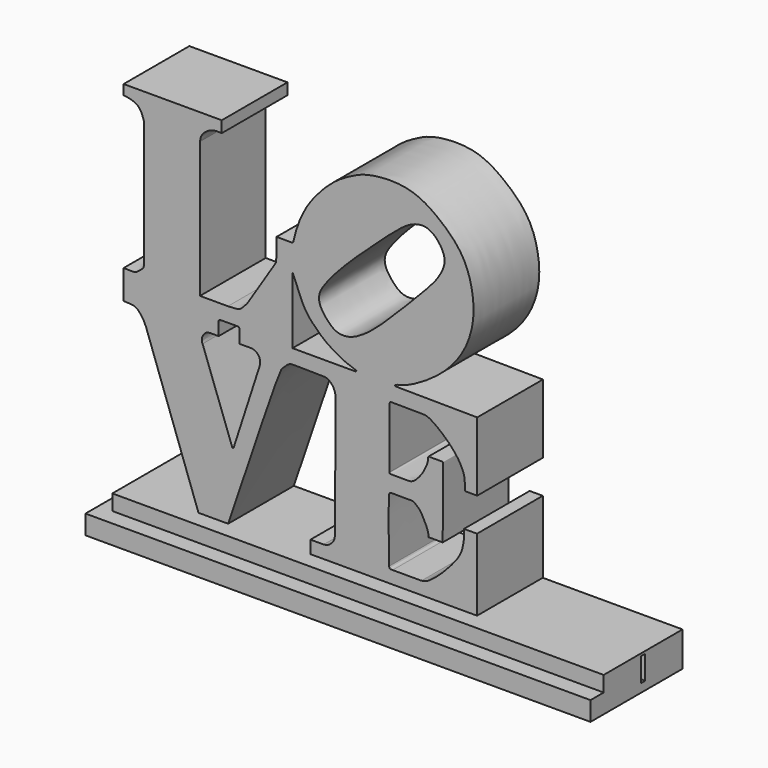
from build123d import *

# Parameters (mm, degrees)
F1_DEPTH = 10
F3_DEPTH = 12
F4_DEPTH = 14
F7_DEPTH = 2.9


with BuildPart() as f1:
    # F0 (on Front) → F1 (new body)
    with BuildSketch(Plane.XZ):
        with BuildLine():
            Line((-19.4826871157, 14.337184839), (-19.4826871157, -1.2017904082))
            add(Edge.make_bspline(
                [(-19.6649637073, -1.5822472051), (-19.6187043398, -1.533607977), (-19.5227706695, -1.4327389007), (-19.4963616594, -1.2805787129), (-19.4826871157, -1.2017904082)],
                knots=[0, 0, 0, 0, 0.482201581, 1, 1, 1, 1], degree=3))
            add(Edge.make_bspline(
                [(-21.940831095, -2.2398743313), (-21.4614434629, -2.2677838281), (-20.6745846762, -2.3135940063), (-20.1785704012, -2.0533117715), (-19.8437692275, -1.7462422344), (-19.6649637073, -1.5822472051)],
                knots=[0, 0, 0, 0, 0.4207779979, 0.6906579202, 1, 1, 1, 1], degree=3))
            Line((-21.940831095, -2.2398743313), (-21.940831095, -4.0263943374))
            Line((-21.940831095, -4.0263943374), (-21.940831095, -5.7869860902))
            add(Edge.make_bspline(
                [(-19.2190650851, -7.6768761501), (-19.3574545345, -7.3650844697), (-19.6232867039, -6.7661641102), (-20.2498331404, -6.1086539097), (-20.666070726, -5.8219261848), (-21.452464873, -5.8003717919), (-21.940831095, -5.7869860902)],
                knots=[0, 0, 0, 0, 0.2687792293, 0.5162977806, 0.6996114145, 1, 1, 1, 1], degree=3))
            Line((-19.2190650851, -7.6768761501), (-12.815640308, -25.5715548992))
            Line((-12.815640308, -25.5715548992), (-9.2427376658, -25.5715548992))
            add(Edge.make_bspline(
                [(3.8729265798, -7.6007489115), (3.8090509807, -7.3159216914), (3.6831428187, -6.7544855207), (3.093759686, -6.1372068831), (2.7101051495, -5.9735993516), (2.3815401865, -5.9171200285), (-1.3645418718, -5.8586529728), (-1.8311485666, -5.9537375199), (-2.6388199367, -6.6926673664), (-3.0930409404, -7.3485166851), (-6.4224535723, -17.2143712682), (-9.2427376658, -25.5715548992)],
                knots=[0, 0, 0, 0, 0.0785350607, 0.1548041079, 0.204919685, 0.2561219488, 0.4165133399, 0.4824659728, 0.562584121, 0.6294730686, 1, 1, 1, 1], degree=3))
            Line((3.8729265798, -7.6007489115), (3.764757188, -22.6705409586))
            add(Edge.make_bspline(
                [(2.4085196201, -23.958325386), (2.5714370456, -23.937177153), (2.8974931658, -23.8948519641), (3.2846630395, -23.5900940323), (3.6724062343, -23.1941726688), (3.7341418008, -22.8441308017), (3.764757188, -22.6705409586)],
                knots=[0, 0, 0, 0, 0.2440991323, 0.4885297922, 0.7463559607, 1, 1, 1, 1], degree=3))
            Line((2.4085196201, -23.958325386), (0.7998591755, -23.958325386))
            Line((0.7998591755, -23.958325386), (0.7998591755, -25.5638938397))
            Line((0.7998591755, -25.5638938397), (21.0764594376, -25.5638938397))
            Line((21.0764594376, -25.5638938397), (21.0764594376, -16.7282037437))
            Line((21.0764594376, -16.7282037437), (19.4828491658, -16.7282037437))
            add(Edge.make_bspline(
                [(14.3079748377, -23.9669959992), (14.5156926676, -23.9283007006), (14.9412380073, -23.8490267933), (15.5318990899, -23.4176465838), (16.4848419087, -22.7028822548), (18.0066202118, -21.1027349086), (18.9662064984, -19.8620202223), (19.3277589019, -18.848449867), (19.5033267039, -17.8680538124), (19.4898508119, -17.1179394033), (19.4828491658, -16.7282037437)],
                knots=[0, 0, 0, 0, 0.0925982031, 0.1897031845, 0.3174668816, 0.4929492083, 0.6405026154, 0.7591107674, 0.8748415938, 1, 1, 1, 1], degree=3))
            Line((14.3079748377, -23.9669959992), (10.8027942479, -23.9669959992))
            add(Edge.make_bspline(
                [(10.356307961, -23.7108133733), (10.3781321126, -23.7688444956), (10.4180977465, -23.8751144042), (10.5169396705, -23.9710258486), (10.6950058014, -23.9685155523), (10.8027942479, -23.9669959992)],
                knots=[0, 0, 0, 0, 0.3219369352, 0.5895493209, 1, 1, 1, 1], degree=3))
            add(Edge.make_bspline(
                [(10.5858389288, -15.7529655844), (10.539888578, -15.7707958582), (10.4444241773, -15.8078392403), (10.2692345658, -16.0668518023), (10.3156834502, -20.1444863785), (10.356307961, -23.7108133733)],
                knots=[0, 0, 0, 0, 0.1042381883, 0.2165606137, 1, 1, 1, 1], degree=3))
            add(Edge.make_bspline(
                [(15.142666176, -19.0223865211), (15.1502270151, -18.9165119327), (15.1684083083, -18.6619189046), (14.9763657241, -18.0000506074), (14.5384502927, -17.1469641201), (14.1156344945, -16.3642016174), (13.2911627526, -15.740142118), (12.9218181808, -15.7849680804), (11.5677447807, -15.7664175181), (10.5858389288, -15.7529655844)],
                knots=[0, 0, 0, 0, 0.0906032212, 0.2178704898, 0.3703395213, 0.5212588576, 0.6707635101, 0.7612542747, 1, 1, 1, 1], degree=3))
            Line((15.142666176, -19.0223865211), (16.8977547437, -19.0223865211))
            add(Edge.make_bspline(
                [(15.1237491518, -10.4752806947), (15.1345862919, -10.4405051349), (15.157362332, -10.367418551), (15.2775134829, -10.3814304195), (16.8065084865, -10.3817911133), (16.9194667808, -10.3772561783), (16.93747369, -10.4821629882), (16.9303470706, -10.7993784178), (16.9246891089, -10.9765232367), (16.8958352347, -18.9193850836), (16.8975897028, -19.0135303779), (16.8977547437, -19.0223865211)],
                knots=[0, 0, 0, 0, 0.0457959447, 0.0962477435, 0.2816314648, 0.3284553422, 0.3717983301, 0.4478947693, 0.5389026862, 0.9566250881, 1, 1, 1, 1], degree=3))
            add(Edge.make_bspline(
                [(10.421465151, -13.5967666283), (10.4229102917, -13.6474927254), (10.4259918413, -13.7556586572), (10.6490145983, -13.7696465708), (11.0713461857, -13.7643261512), (12.1270489988, -13.7580644355), (12.838263735, -13.7835198273), (13.0499262825, -13.7273845321), (13.3703514784, -13.609186391), (13.6915756343, -13.3191559254), (14.1058916942, -12.8593216872), (14.5026307602, -12.3208040569), (14.790331123, -11.7420980935), (15.0398344642, -11.1878720668), (15.125841099, -10.7588653638), (15.1243926103, -10.5625080172), (15.1237491518, -10.4752806947)],
                knots=[0, 0, 0, 0, 0.0389857576, 0.0831313867, 0.1529098964, 0.2649908396, 0.3543510064, 0.4027212524, 0.4627809137, 0.5330037338, 0.6170761839, 0.7046843909, 0.7908635669, 0.8743066134, 0.9441635479, 1, 1, 1, 1], degree=3))
            Line((10.421465151, -13.5967666283), (10.447374545, -6.1845802702))
            add(Edge.make_bspline(
                [(10.6538878754, -6.0236915015), (10.5982904529, -6.023408839), (10.4871364595, -6.0228437217), (10.4606252687, -6.1306812983), (10.447374545, -6.1845802702)],
                knots=[0, 0, 0, 0, 0.500183761, 1, 1, 1, 1], degree=3))
            Line((10.6538878754, -6.0236915015), (14.6375913173, -6.0587520711))
            add(Edge.make_bspline(
                [(19.5921547711, -12.6453824341), (19.594983278, -12.4004405865), (19.6008858018, -11.8892963276), (19.5535799158, -10.9900220101), (19.1933996541, -10.1470570166), (18.698772835, -9.2969795309), (17.8581764088, -8.2963889506), (16.9971120507, -7.4791692236), (16.0477993739, -6.708372463), (15.1316416689, -6.1304412235), (14.7786163879, -6.0792155072), (14.6375913173, -6.0587520711)],
                knots=[0, 0, 0, 0, 0.098388396, 0.2053167485, 0.3128120242, 0.4254058388, 0.5545643433, 0.6788416905, 0.8058311891, 0.9224342512, 1, 1, 1, 1], degree=3))
            Line((19.5921547711, -12.6453824341), (21.0971925408, -12.6453824341))
            Line((21.0971925408, -12.6453824341), (21.0971925408, -4.2588030919))
            Line((21.0971925408, -4.2588030919), (11.3242110237, -4.1703511961))
            add(Edge.make_bspline(
                [(11.3242110237, -3.93317407), (11.1966912195, -3.9995438285), (10.951716258, -4.1270450362), (11.2034941489, -4.1563166787), (11.3242110237, -4.1703511961)],
                knots=[0, 0, 0, 0, 0.5205421954, 1, 1, 1, 1], degree=3))
            add(Edge.make_bspline(
                [(-1.4930124162, 7.143728435), (-1.4365618014, 7.1478299543), (-1.2994981892, 7.1577885536), (-1.2249156554, 7.5672699543), (-0.7805618193, 9.3696884743), (0.3352496544, 11.7220393472), (1.849080325, 13.6403188536), (3.7598455424, 15.5249604878), (5.9371185696, 16.7369992921), (7.9141146983, 17.6225953461), (12.7989147539, 17.9576131599), (16.3894294881, 15.7130810749), (19.2893591459, 12.9589182536), (20.5398276902, 9.6443505571), (20.8612180748, 5.6657698369), (19.2891332955, 1.4791045239), (16.1122274592, -1.6911261628), (12.696836799, -3.618272792), (11.6942749405, -3.848275766), (11.3242110237, -3.93317407)],
                knots=[0, 0, 0, 0, 0.0143853111, 0.0349279226, 0.0838309145, 0.1435365248, 0.2005133886, 0.260029146, 0.3163858359, 0.3699594237, 0.4482389351, 0.5231270435, 0.5947683606, 0.6621772465, 0.7339009242, 0.8095273354, 0.8874607325, 0.9584596983, 1, 1, 1, 1], degree=3))
            Line((-1.4930124162, 7.143728435), (-3.3342735842, 7.143728435))
            Line((-3.3342735842, 7.143728435), (-3.3679809421, 4.714331124))
            add(Edge.make_bspline(
                [(-3.5829311237, 4.0665832348), (-3.5072425387, 4.1838983499), (-3.365805846, 4.4031211283), (-3.3672906962, 4.615571619), (-3.3679809421, 4.714331124)],
                knots=[0, 0, 0, 0, 0.5351410831, 1, 1, 1, 1], degree=3))
            Line((-3.5829311237, 4.0665832348), (-6.7744129337, -0.9596821619))
            add(Edge.make_bspline(
                [(-9.2496974394, -2.2121318616), (-8.9136157792, -2.1912293999), (-8.3056736968, -2.1534186901), (-7.7051982824, -2.1219187377), (-6.8756163103, -1.1197861321), (-6.7962105986, -0.9941661169), (-6.7744129337, -0.9596821619)],
                knots=[0, 0, 0, 0, 0.2952869153, 0.5341479869, 0.8721189467, 1, 1, 1, 1], degree=3))
            Line((-9.2496974394, -2.2121318616), (-12.6505801454, -2.2121318616))
            Line((-12.6505801454, -2.2121318616), (-12.6505801454, 14.3212610856))
            add(Edge.make_bspline(
                [(-10.0019108504, 16.0870403051), (-10.2826497345, 16.105739675), (-10.8574141474, 16.1440234074), (-11.7418193391, 15.8409492429), (-12.5371662584, 15.1053268463), (-12.6147114874, 14.5692323647), (-12.6505801454, 14.3212610856)],
                knots=[0, 0, 0, 0, 0.2437360618, 0.4990075204, 0.7682652028, 1, 1, 1, 1], degree=3))
            Line((-10.0019108504, 16.0870403051), (-10.0019108504, 17.4724981189))
            Line((-10.0019108504, 17.4724981189), (-21.9470188022, 17.4724981189))
            Line((-21.9470188022, 17.4724981189), (-21.9470188022, 16.2538867444))
            add(Edge.make_bspline(
                [(-19.4826871157, 14.337184839), (-19.6617263154, 14.8883894272), (-20.022789868, 15.9999889375), (-21.5401976165, 16.2327628466), (-21.9470188022, 16.2538867444)],
                knots=[0, 0, 0, 0, 0.3955600378, 0.7977153198, 0.7977153198, 0.7977153198, 0.7977153198], degree=3))
        make_face()
        with BuildLine():
            add(Edge.make_bspline(
                [(-10.1614147425, -3.9855996147), (-10.255898387, -3.9927723318), (-10.3119786886, -4.0098103266), (-10.3919606355, -4.1190121992), (-10.3880577506, -4.2543573252), (-10.3857666254, -4.3338094838)],
                knots=[0.6794786341, 0.6794786341, 0.6794786341, 0.6794786341, 0.7866862552, 0.8747776297, 1, 1, 1, 1], degree=3))
            add(Edge.make_bspline(
                [(-8.2511454821, -3.9765341207), (-8.7421912789, -3.9620674927), (-9.8340785488, -3.9607499179), (-10.1614147425, -3.9855996147)],
                knots=[0.3080605459, 0.3080605459, 0.3080605459, 0.3080605459, 0.6794786341, 0.6794786341, 0.6794786341, 0.6794786341], degree=3))
            add(Edge.make_bspline(
                [(-7.8118890524, -4.3338094838), (-7.8230099873, -4.2284225751), (-7.8471275758, -3.9998736162), (-8.0316666247, -3.9830001551), (-8.2511454821, -3.9765341207)],
                knots=[0, 0, 0, 0, 0.1420507396, 0.3080605459, 0.3080605459, 0.3080605459, 0.3080605459], degree=3))
            Line((-7.8118890524, -4.3338094838), (-7.8118890524, -5.7831243612))
            add(Edge.make_bspline(
                [(-5.3669661283, -7.3006474413), (-5.3493397752, -7.075412424), (-5.3161607308, -6.6514402854), (-5.5522430723, -6.1769564643), (-6.1034916529, -5.7488731085), (-6.9554237961, -5.7923792826), (-7.5242399037, -5.7862326837), (-7.8118890524, -5.7831243612)],
                knots=[0, 0, 0, 0, 0.1930297297, 0.363350372, 0.5563481451, 0.7756461593, 1, 1, 1, 1], degree=3))
            Line((-5.3669661283, -7.3006474413), (-8.5589438677, -17.1645469964))
            add(Edge.make_bspline(
                [(-8.5589438677, -17.1645469964), (-8.5886358527, -17.1987790687), (-8.6468025572, -17.2658398205), (-8.6968610634, -17.1978369012), (-8.7213665247, -17.1645469964)],
                knots=[0, 0, 0, 0, 0.5104635927, 1, 1, 1, 1], degree=3))
            Line((-8.7213665247, -17.1645469964), (-12.3366862535, -7.2461212985))
            add(Edge.make_bspline(
                [(-10.3857666254, -5.7908529416), (-10.807276952, -5.7783049072), (-11.4684033774, -5.758623688), (-11.8356987839, -5.8576785887), (-12.1314443036, -6.0740044136), (-12.3311864601, -6.3888753587), (-12.4061680901, -6.6315117758), (-12.4273059262, -7.0391759863), (-12.3638567456, -7.1840728955), (-12.3366862535, -7.2461212985)],
                knots=[0, 0, 0, 0, 0.2362419813, 0.3705385296, 0.5032930929, 0.6381894077, 0.753355773, 0.8943809051, 1, 1, 1, 1], degree=3))
            Line((-10.3857666254, -5.7908529416), (-10.3857666254, -4.3338094838))
        make_face(mode=Mode.SUBTRACT)
        with BuildLine():
            Line((-1.3859719038, -4.152210895), (-1.3859719038, -3.9765341207))
            Line((-1.3859719038, -3.9765341207), (-1.3859719038, 3.9588278159))
            add(Edge.make_bspline(
                [(-1.3859719038, 3.9588278159), (-1.2511739149, 3.6376142698), (-0.9684515901, 2.963908072), (-0.4704815079, 1.7803746987), (0.2496177003, 0.1080258573), (1.6904083353, -1.3063968365), (2.6510883647, -2.1907260458), (3.9887804265, -3.0044192761), (5.2204893181, -3.6390215808), (5.9312465757, -3.8667610014), (6.2633007765, -3.9731571451)],
                knots=[0, 0, 0, 0, 0.1078935487, 0.2262935462, 0.3683804495, 0.5164647825, 0.6369892958, 0.7672512838, 0.8912635951, 1, 1, 1, 1], degree=3))
            add(Edge.make_bspline(
                [(6.2633007765, -3.9731571451), (6.3179182905, -3.9992245802), (6.4250521022, -4.0503565977), (6.3343873329, -4.1187063104), (6.2899440527, -4.152210895)],
                knots=[0, 0, 0, 0, 0.5098065038, 1, 1, 1, 1], degree=3))
            Line((6.2899440527, -4.152210895), (-1.3859719038, -4.152210895))
        make_face(mode=Mode.SUBTRACT)
        with BuildLine():
            add(Edge.make_bspline(
                [(13.0469053984, 13.7927848846), (13.3225592921, 13.9194728932), (13.9120554431, 14.1386871473), (15.0419826128, 14.1659159528), (16.2254129433, 13.3679972155), (17.103037028, 11.9934510143), (17.1963255368, 10.6992913231), (16.2681991936, 8.9195681246), (14.6329709835, 7.1604586029), (12.2255360532, 4.6751430712), (10.0816288092, 2.5014541059), (7.8462081182, 0.4565687675), (6.0720206878, -0.5811265899), (5.0083156333, -0.8216675148), (3.8184116893, -0.7294057142), (2.7522333356, 0.2997534348), (1.9717379083, 1.3612832592), (1.7536925742, 2.3899000572), (2.1110081649, 3.409291257), (3.2951005199, 4.9770464974), (5.531187921, 7.4418618985), (11.5449127574, 12.9613355374), (12.6832986571, 13.6256745516), (13.0469053984, 13.7927848846)],
                knots=[0, 0, 0, 0, 0.0330065447, 0.0685543017, 0.1090748392, 0.1523763343, 0.190371707, 0.2376354119, 0.291604309, 0.3555658795, 0.4166647643, 0.476797874, 0.5254165938, 0.5606101911, 0.5967701333, 0.6381949986, 0.6778755166, 0.7118548978, 0.7464607654, 0.7924022238, 0.858146044, 0.9564620619, 1, 1, 1, 1], degree=3))
        make_face(mode=Mode.SUBTRACT)
    extrude(amount=F1_DEPTH)

    # F2 (on Front) → F3 (join)
    with BuildSketch(Plane.XZ):
        Polygon((-21.721088459, -25.5169682205), (-21.721088459, -25.6050539747), (-21.721088459, -27.4050539747), (24.6850188274, -27.4050539747), (38.0913168192, -27.4050539747), (38.0913168192, -25.6050539747), (38.0913168192, -25.5169682205), align=None)
    extrude(amount=F3_DEPTH)

    # F2 (on Front) → F4 (join)
    with BuildSketch(Plane.XZ):
        Polygon((24.6850188274, -27.4050539747), (-21.721088459, -27.4050539747), (-23.3910027891, -27.4050539747), (-23.3910027891, -29.7407731414), (38.0913168192, -29.7407731414), (38.0913168192, -27.4050539747), align=None)
    extrude(amount=F4_DEPTH)

    # F6 (on offset) → F7 (cut)
    with BuildSketch(Plane.XY.offset(-25.8169682205)):
        Polygon((38.1252840161, -6.3415891491), (38.1252840161, -6.0001453385), (38.1252840161, -5.6790183298), (21.5391051024, -5.6790183298), (21.5391051024, -6.4071742818), align=None)
    extrude(amount=-F7_DEPTH, mode=Mode.SUBTRACT)


solid = f1.part
